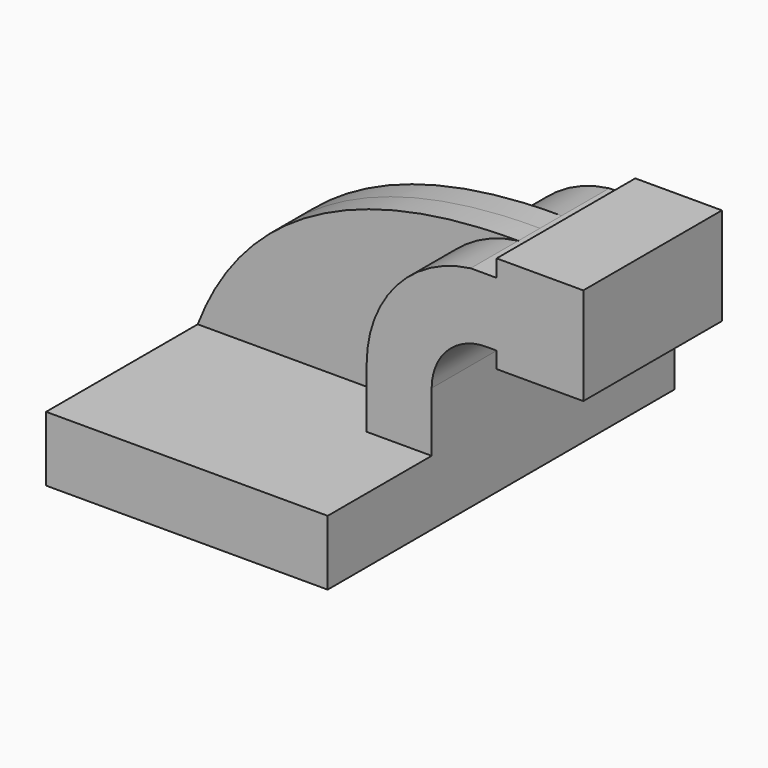
from build123d import *

# Parameters (mm, degrees)
F1_DEPTH = 63.5
F0_W     = 25.4
F0_H     = 4.7752
F0_H_2   = 18.7659815103
F0_H_3   = 5.0338184897
F2_DEPTH = 25.4
F3_DEPTH = 7.9375


with BuildPart() as f1:
    # F0 (on Front) → F1 (new body, symmetric)
    with BuildSketch(Plane.XZ):
        Polygon((41.275, -9.525), (41.275, 9.525), (22.225, 9.525), (-41.275, 9.525), (-41.275, -9.525), align=None)
    extrude(amount=F1_DEPTH, both=True)

    # F0 (on Front) → F2 (join, symmetric)
    with BuildSketch(Plane.XZ):
        with BuildLine():
            Line((22.225, 9.525), (41.275, 9.525))
            Line((41.275, 9.525), (41.275, 27.0002))
            ThreePointArc((41.275, 27.0002), (45.9246798487, 38.2255201513), (57.15, 42.8752))
            Line((57.15, 42.8752), (60.325, 42.8752))
            Line((60.325, 42.8752), (60.325, 61.6411815103))
            Line((60.325, 61.6411815103), (52.705, 61.6411815103))
            ThreePointArc((52.705, 61.6411815103), (30.929805016, 50.0708956982), (22.225, 27.0002))
            Line((22.225, 27.0002), (22.225, 9.525))
        make_face()
        with Locations((73.025, 40.4876)):
            Rectangle(F0_W, F0_H)
        with Locations((73.025, 52.2581907552)):
            Rectangle(F0_W, F0_H_2)
        with Locations((73.025, 64.1580907552)):
            Rectangle(F0_W, F0_H_3)
    extrude(amount=F2_DEPTH, both=True)

    # F0 (on Front) → F3 (join, symmetric)
    with BuildSketch(Plane.XZ):
        with BuildLine():
            Line((-41.275, 9.525), (22.225, 9.525))
            Line((22.225, 9.525), (22.225, 27.0002))
            ThreePointArc((22.225, 27.0002), (30.929805016, 50.0708956982), (52.705, 61.6411815103))
            add(Edge.make_bspline(
                [(-41.275, 9.525), (-26.7878733575, 47.4557615817), (10.0529832694, 61.8960684807), (52.705, 61.6411815103)],
                knots=[0, 0, 0, 0, 107.4631880004, 107.4631880004, 107.4631880004, 107.4631880004], degree=3))
        make_face()
    extrude(amount=F3_DEPTH, both=True)


solid = f1.part
